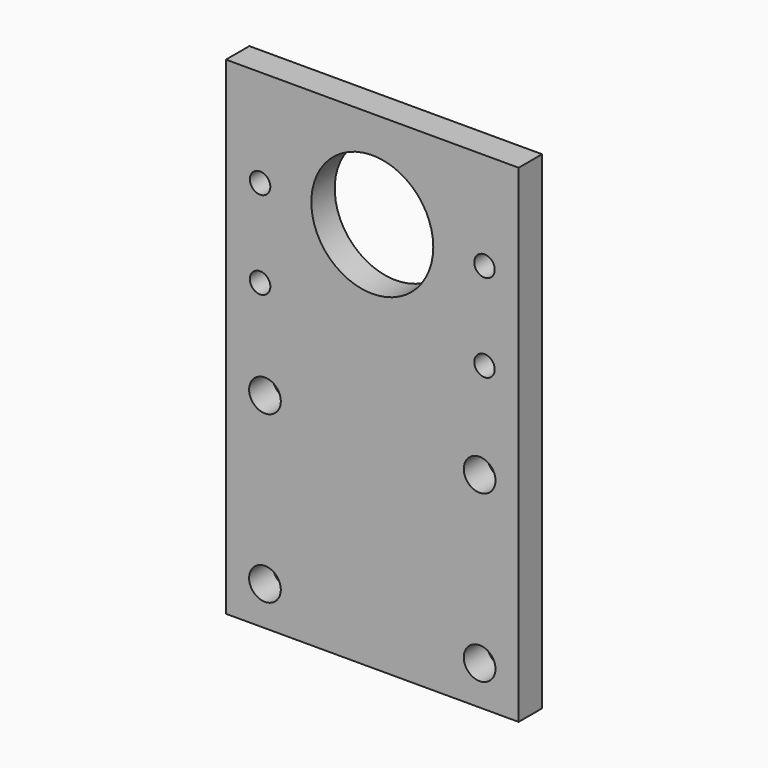
from build123d import *

# Parameters (mm, degrees)
F0_W     = 60
F0_H     = 100
F0_R     = 3.25
F0_R_2   = 2.1
F0_R_3   = 12.5
F1_DEPTH = 6


with BuildPart() as f1:
    # F0 (on Front) → F1 (new body)
    with BuildSketch(Plane.XZ):
        Rectangle(F0_W, F0_H)
        with Locations((-22, -42)):
            Circle(F0_R, mode=Mode.SUBTRACT)
        with Locations((-22, -8)):
            Circle(F0_R, mode=Mode.SUBTRACT)
        with Locations((22, -42)):
            Circle(F0_R, mode=Mode.SUBTRACT)
        with Locations((22, -8)):
            Circle(F0_R, mode=Mode.SUBTRACT)
        with Locations((-23, 12)):
            Circle(F0_R_2, mode=Mode.SUBTRACT)
        with Locations((-23, 30)):
            Circle(F0_R_2, mode=Mode.SUBTRACT)
        with Locations((23, 12)):
            Circle(F0_R_2, mode=Mode.SUBTRACT)
        with Locations((0, 30)):
            Circle(F0_R_3, mode=Mode.SUBTRACT)
        with Locations((23, 30)):
            Circle(F0_R_2, mode=Mode.SUBTRACT)
    extrude(amount=-F1_DEPTH)


solid = f1.part
